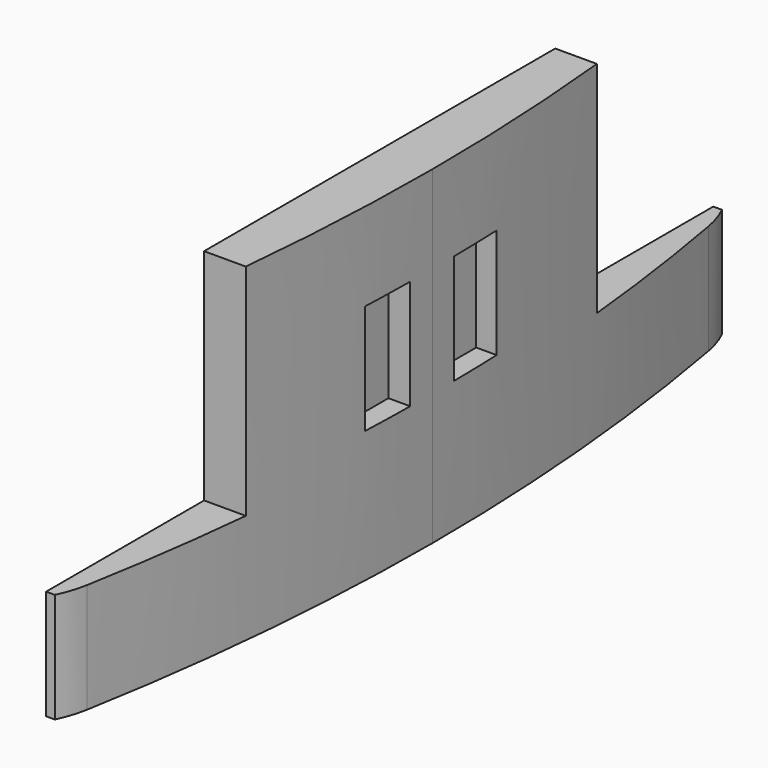
from build123d import *

# Parameters (mm, degrees)
F1_DEPTH = 25.4
F2_R     = 6.35
F3_W     = 65.815818
F3_H     = 34.738873
F4_DEPTH = 15.774595
F5_W     = 13.649403
F5_H     = 52.52206
F6_DEPTH = 22.861
F7_W     = 3.175
F7_H     = 6.35
F8_DEPTH = 1.27


with BuildPart() as f1:
    # F0 (on Top) → F1 (new body)
    with BuildSketch(Plane.XY):
        with BuildLine():
            Line((-3.073595, 27.77132), (-3.073595, -27.77132))
            ThreePointArc((-3.073595, -27.77132), (-0.770738, -13.970444), (0, 0))
            ThreePointArc((0, 0), (-0.770738, 13.970444), (-3.073595, 27.77132))
        make_face()
        Polygon((-15.773595, -27.599099), (-3.073595, -27.77132), (-3.073595, 27.77132), (-15.773595, 27.599099), align=None)
    extrude(amount=F1_DEPTH)

    # F2
    f2_edges = [f1.edges().sort_by_distance(p)[0] for p in [
        (-3.073595, 27.77132, 12.7),
        (-3.073595, -27.77132, 12.7),
    ]]
    fillet(f2_edges, radius=F2_R)

    # F3 (on Right) → F4 (cut, through all)
    with BuildSketch(Plane.YZ):
        with Locations((2.774937, 10.382003)):
            Rectangle(F3_W, F3_H)
        Polygon((-12.7, 10.16), (-12.7, 22.86), (12.7, 22.86), (12.7, 10.16), (24.13, 10.16), (24.13, 3.81), (-24.13, 3.81), (-24.13, 10.16), align=None, mode=Mode.SUBTRACT)
    extrude(amount=-F4_DEPTH, mode=Mode.SUBTRACT)

    # F5 (on Top) → F6 (cut, through all)
    with BuildSketch(Plane.XY):
        with Locations((-9.872701, -0.828976)):
            Rectangle(F5_W, F5_H)
    extrude(amount=F6_DEPTH, mode=Mode.SUBTRACT)

    # F7 (on Right) → F8 (cut)
    with BuildSketch(Plane.YZ):
        with Locations((-3.175, 14.605)):
            Rectangle(F7_W, F7_H)
        with Locations((3.175, 14.605)):
            Rectangle(F7_W, F7_H)
    extrude(amount=-F8_DEPTH, mode=Mode.SUBTRACT)


solid = f1.part
